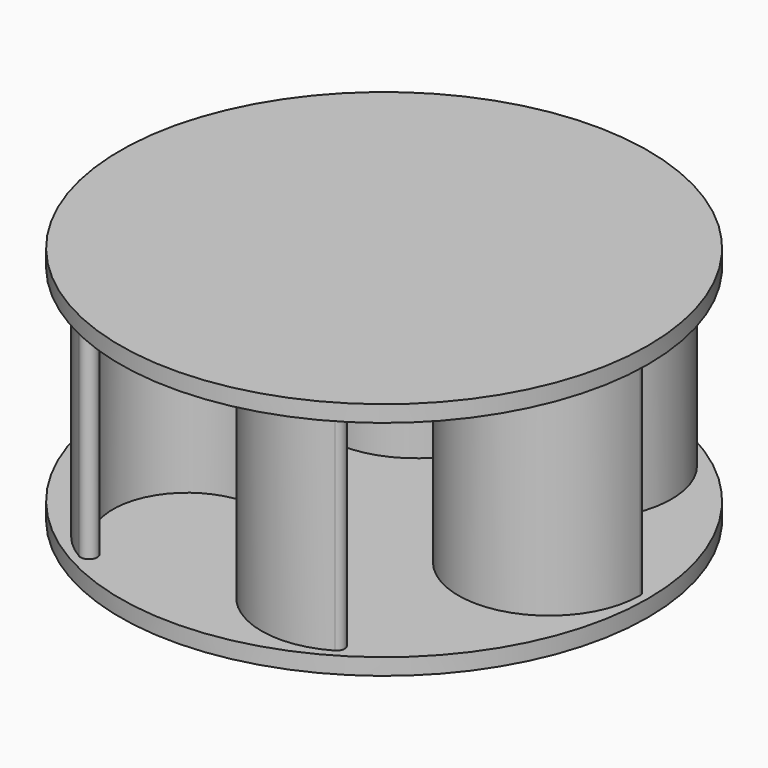
from build123d import *

# Parameters (mm, degrees)
SKETCH_R           = 64
PAD_DEPTH          = 4
PAD001_DEPTH       = 50
POLARPATTERN_COUNT = 3
SKETCH002_R        = 64
PAD002_DEPTH       = 4


with BuildPart() as part:
    # Sketch → Pad (new body)
    with BuildSketch(Plane.XY):
        Circle(SKETCH_R)
    extrude(amount=-PAD_DEPTH)

    # Sketch001 → Pad001 (join)
    with BuildSketch(Plane.XY):
        with BuildLine():
            ThreePointArc((29, 19.052559), (29, -19.052559), (62, 0))
            ThreePointArc((62, 0), (60, 2), (58, 0))
            ThreePointArc((31, 15.588457), (31, -15.588457), (58, 0))
            ThreePointArc((31, 15.588457), (41.999973, 34.641035), (30.99994, 53.693578))
            ThreePointArc((30.99994, 53.693578), (28.267891, 52.961523), (28.999946, 50.229473))
            ThreePointArc((29, 19.052559), (37.999973, 34.641032), (28.999946, 50.229473))
        make_face()
    pad001 = extrude(amount=PAD001_DEPTH)

    # PolarPattern: Pad001 ×3 about axis
    polarpattern_axis = Axis((0, 0, 0), (0, 0, 1))
    for i in range(1, POLARPATTERN_COUNT):
        add(pad001.rotate(polarpattern_axis, i * 360 / POLARPATTERN_COUNT))

    # Sketch002 → Pad002 (join)
    with BuildSketch(Plane.XY.offset(50)):
        Circle(SKETCH002_R)
    extrude(amount=PAD002_DEPTH)


solid = part.part
